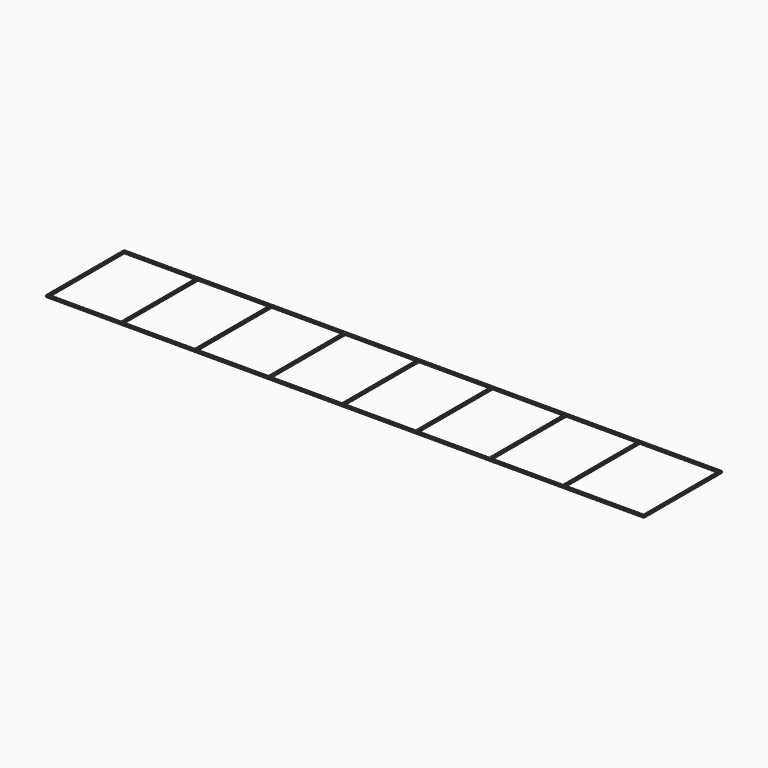
from build123d import *

# Parameters (mm, degrees)
F0_W     = 13800
F0_H     = 2250
F0_W_2   = 40
F0_H_2   = 2170
F1_DEPTH = 40


with BuildPart() as f1:
    # F0 (on Top) → F1 (new body)
    with BuildSketch(Plane.XY):
        Rectangle(F0_W, F0_H)
        Polygon((5040, 1085), (6860, 1085), (6860, -1085), (5040, -1085), (5000, -1085), (3340, -1085), (3300, -1085), (1640, -1085), (1600, -1085), (-60, -1085), (-100, -1085), (-1760, -1085), (-1800, -1085), (-3460, -1085), (-3500, -1085), (-5160, -1085), (-5200, -1085), (-6860, -1085), (-6860, 1085), (-5200, 1085), (-5160, 1085), (-3500, 1085), (-3460, 1085), (-1800, 1085), (-1760, 1085), (-100, 1085), (-60, 1085), (1600, 1085), (1640, 1085), (3300, 1085), (3340, 1085), (5000, 1085), align=None, mode=Mode.SUBTRACT)
        with Locations((-5180, 0)):
            Rectangle(F0_W_2, F0_H_2)
        with Locations((-3480, 0)):
            Rectangle(F0_W_2, F0_H_2)
        with Locations((-1780, 0)):
            Rectangle(F0_W_2, F0_H_2)
        with Locations((-80, 0)):
            Rectangle(F0_W_2, F0_H_2)
        with Locations((1620, 0)):
            Rectangle(F0_W_2, F0_H_2)
        with Locations((3320, 0)):
            Rectangle(F0_W_2, F0_H_2)
        with Locations((5020, 0)):
            Rectangle(F0_W_2, F0_H_2)
    extrude(amount=-F1_DEPTH)


solid = f1.part
